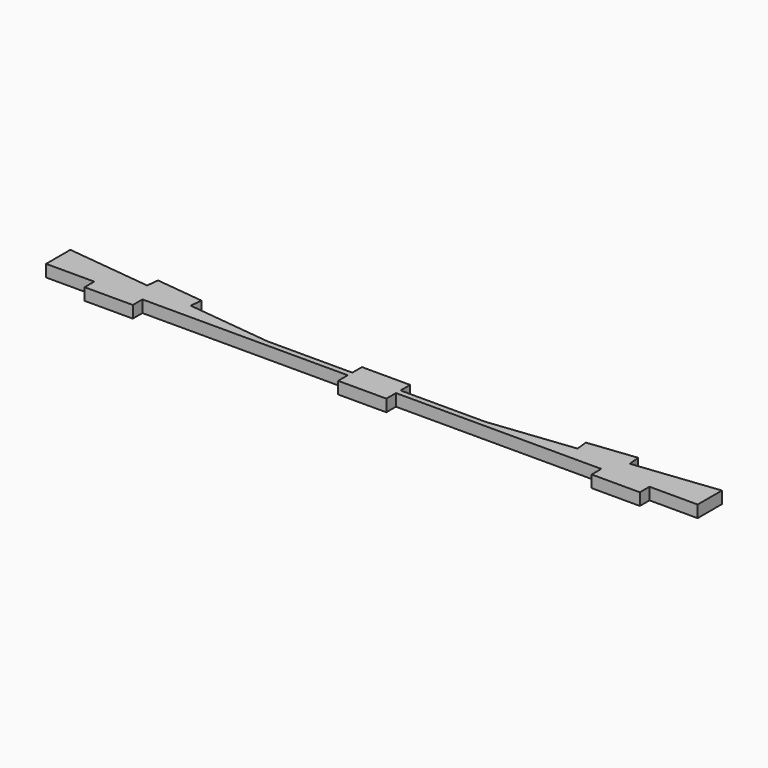
from build123d import *

# Parameters (mm, degrees)
F0_W     = 25.4
F0_H     = 6.35
F1_DEPTH = 6.35


with BuildPart() as f1:
    # F0 (on Top) → F1 (new body)
    with BuildSketch(Plane.XY):
        Polygon((-171.779727, 16), (-171.779727, 0), (-146.379727, 0), (-120.979727, 0), (-12.7, 0), (12.7, 0), (120.979727, 0), (146.379727, 0), (171.779727, 0), (171.779727, 16), (127.261273, 10.935512), (102.024054, 8.064488), (57.5056, 3), (12.7, 3), (-12.7, 3), (-57.5056, 3), (-102.024054, 8.064488), (-127.261273, 10.935512), align=None)
        with Locations((-133.679727, -3.175)):
            Rectangle(F0_W, F0_H)
        Polygon((-126.543517, 17.244817), (-127.261273, 10.935512), (-102.024054, 8.064488), (-101.306298, 14.373792), align=None)
        with Locations((0, -3.175)):
            Rectangle(F0_W, F0_H)
        with Locations((133.679727, -3.175)):
            Rectangle(F0_W, F0_H)
        with Locations((0, 6.175)):
            Rectangle(F0_W, F0_H)
        Polygon((101.306298, 14.373792), (102.024054, 8.064488), (127.261273, 10.935512), (126.543517, 17.244817), align=None)
    extrude(amount=F1_DEPTH)


solid = f1.part
